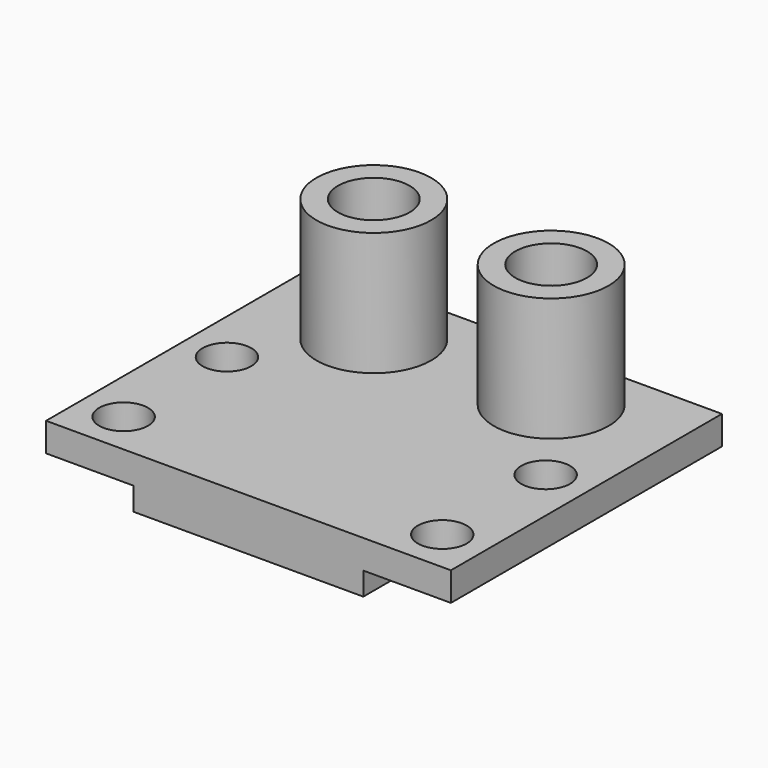
from build123d import *

# Parameters (mm, degrees)
SKETCH005_W     = 16
SKETCH005_H     = 23.6
PAD001_DEPTH    = 1.6
SKETCH006_W     = 28.2
SKETCH006_H     = 23.6
PAD002_DEPTH    = 2
SKETCH007_W     = 1.9812
SKETCH007_H     = 1.27
POCKET002_DEPTH = 3.601
SKETCH008_R     = 4
SKETCH008_R_2   = 2.5
PAD003_DEPTH    = 8.6
SKETCH009_R     = 1.7
POCKET003_DEPTH = 2


with BuildPart() as part:
    # Sketch005 → Pad001 (new body)
    with BuildSketch(Plane.XY):
        with Locations((0, -33.4375)):
            Rectangle(SKETCH005_W, SKETCH005_H)
    extrude(amount=PAD001_DEPTH)

    # Sketch006 (on Face6 of Pad001) → Pad002 (join)
    with BuildSketch(Plane.XY.offset(1.6)):
        with Locations((0, -33.4375)):
            Rectangle(SKETCH006_W, SKETCH006_H)
    extrude(amount=PAD002_DEPTH)

    # Sketch007 (on Face7 of Pad002) → Pocket002 (cut, through all)
    with BuildSketch(Plane.XY.offset(3.6)):
        with Locations((-6.1781, -26.6025)):
            Rectangle(SKETCH007_W, SKETCH007_H)
        with Locations((6.1781, -26.6025)):
            Rectangle(SKETCH007_W, SKETCH007_H)
    extrude(amount=-POCKET002_DEPTH, mode=Mode.SUBTRACT)

    # Sketch008 (on Face7 of Pocket002) → Pad003 (join)
    with BuildSketch(Plane.XY.offset(3.6)):
        with Locations((-6.1781, -26.6025)):
            Circle(SKETCH008_R)
        with Locations((-6.1781, -26.6025)):
            Circle(SKETCH008_R_2, mode=Mode.SUBTRACT)
        with Locations((6.1781, -26.6025)):
            Circle(SKETCH008_R)
        with Locations((6.1781, -26.6025)):
            Circle(SKETCH008_R_2, mode=Mode.SUBTRACT)
    extrude(amount=PAD003_DEPTH)

    # Sketch009 (on Face7 of Pad003) → Pocket003 (cut)
    with BuildSketch(Plane.XY.offset(3.6)):
        with Locations((-11.1, -42.2375)):
            Circle(SKETCH009_R)
        with Locations((11.1, -42.2375)):
            Circle(SKETCH009_R)
        with Locations((-11.1, -33.2375)):
            Circle(SKETCH009_R)
        with Locations((11.1, -33.2375)):
            Circle(SKETCH009_R)
    extrude(amount=-POCKET003_DEPTH, mode=Mode.SUBTRACT)


with BuildPart() as part_1:
    # Body001 placement: moved
    add(part.part.moved(Location((0, 0, 2.4))))


solid = part_1.part
